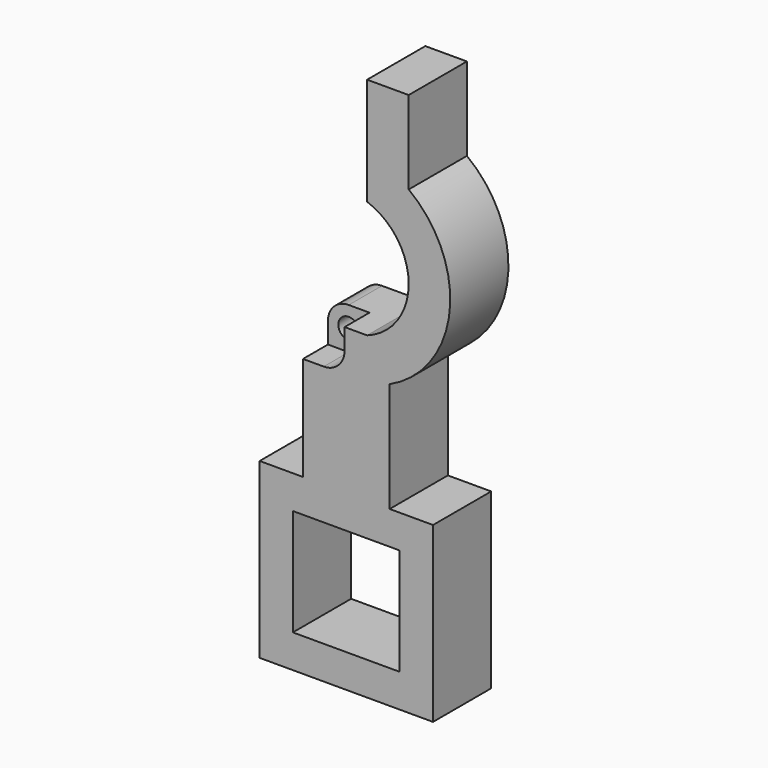
from build123d import *

# Parameters (mm, degrees)
F0_R     = 2.5
F1_DEPTH = 15
F2_R     = 5
F4_DEPTH = 5
F5_DEPTH = 2.5


with BuildPart() as f1:
    # F0 (on Front) → F1 (new body)
    with BuildSketch(Plane.XZ):
        with BuildLine():
            Line((-20.85, 20.85), (-20.85, 0))
            Line((-20.85, 0), (-20.85, -20.85))
            Line((-20.85, -20.85), (0, -20.85))
            Line((0, -20.85), (20.85, -20.85))
            Line((20.85, -20.85), (20.85, 0))
            Line((20.85, 0), (20.85, 20.85))
            Line((20.85, 20.85), (10.425, 20.85))
            Line((10.425, 20.85), (10.425, 47.277337854))
            ThreePointArc((10.425, 47.277337854), (24.8578784585, 67.3380686447), (15, 90))
            Line((15, 90), (15, 110))
            Line((15, 110), (5, 110))
            Line((5, 110), (5, 84.1421356237))
            ThreePointArc((5, 84.1421356237), (14.9999953406, 69.9881770745), (4.9777002722, 55.85))
            Line((4.9777002722, 55.85), (-10.425, 55.85))
            Line((-10.425, 55.85), (-10.425, 20.85))
            Line((-10.425, 20.85), (-20.85, 20.85))
        make_face()
        Polygon((-12.85, 12.85), (0, 12.85), (12.85, 12.85), (12.85, 0), (12.85, -12.85), (0, -12.85), (-12.85, -12.85), (-12.85, 0), align=None, mode=Mode.SUBTRACT)
        with Locations((-5.425, 50.85)):
            Circle(F0_R, mode=Mode.SUBTRACT)
    extrude(amount=F1_DEPTH)

    # F2
    f2_edges = [f1.edges().sort_by_distance(p)[0] for p in [
        (-10.425, -7.5, 55.85),
    ]]
    fillet(f2_edges, radius=F2_R)

    # F3 (on face) → F4 (cut)
    with BuildSketch(Plane.XZ.offset(15)):
        with BuildLine():
            Line((-0.425, 55.85), (-5.425, 55.85))
            ThreePointArc((-5.425, 55.85), (-8.9605339059, 54.3855339059), (-10.425, 50.85))
            Line((-10.425, 50.85), (-10.425, 45.85))
            Line((-10.425, 45.85), (-5.425, 45.85))
            ThreePointArc((-5.425, 45.85), (-1.8894660941, 47.3144660941), (-0.425, 50.85))
            Line((-0.425, 50.85), (-0.425, 55.85))
        make_face()
    extrude(amount=-F4_DEPTH, mode=Mode.SUBTRACT)

    # F5 (add): a face of the model
    f5_faces = [f1.faces().sort_by_distance(p)[0] for p in [
        (4.1569852553, -15, 31.7276341026),
    ]]
    extrude(f5_faces, amount=F5_DEPTH)


solid = f1.part
